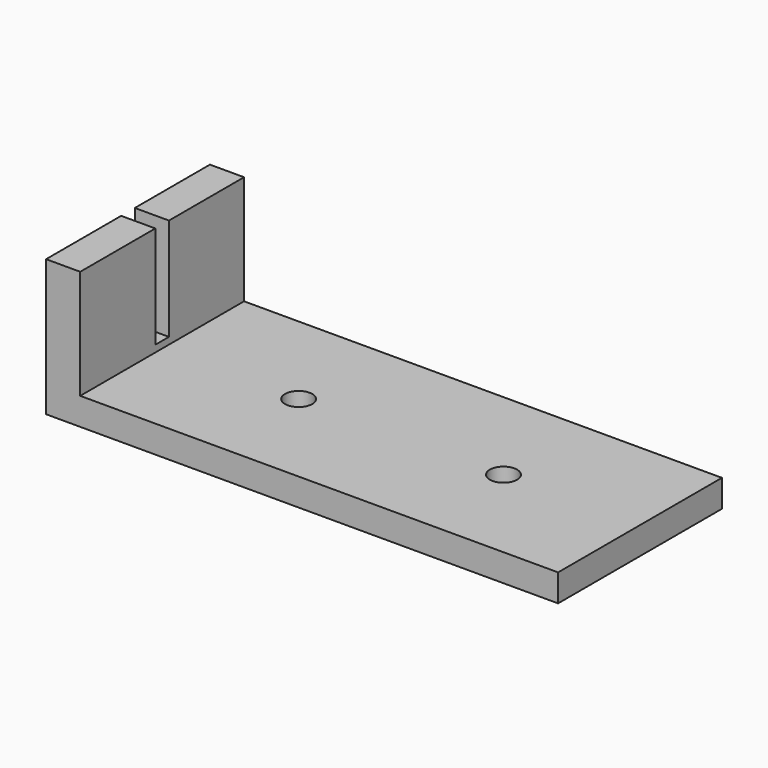
from build123d import *

# Parameters (mm, degrees)
F0_W     = 95.25
F0_H     = 38.1
F0_R     = 2.54
F1_DEPTH = 25.4
F2_W     = 88.9
F2_H     = 20.32
F3_DEPTH = 38.101
F4_W     = 3.175
F4_H     = 19.05
F5_DEPTH = 25.4


with BuildPart() as f1:
    # F0 (on Top) → F1 (new body)
    with BuildSketch(Plane.XY):
        with Locations((47.625, 19.05)):
            Rectangle(F0_W, F0_H)
        with Locations((31.75, 19.05)):
            Circle(F0_R, mode=Mode.SUBTRACT)
        with Locations((69.85, 19.05)):
            Circle(F0_R, mode=Mode.SUBTRACT)
    extrude(amount=F1_DEPTH)

    # F2 (on face) → F3 (cut, through all)
    with BuildSketch(Plane.XZ):
        with Locations((50.8, 15.24)):
            Rectangle(F2_W, F2_H)
    extrude(amount=-F3_DEPTH, mode=Mode.SUBTRACT)

    # F4 (on face) → F5 (cut)
    with BuildSketch(Plane(origin=(0, 0, 0), x_dir=(0, -1, 0), z_dir=(-1, 0, 0))):
        with Locations((-19.05, 15.875)):
            Rectangle(F4_W, F4_H)
    extrude(amount=-F5_DEPTH, mode=Mode.SUBTRACT)


solid = f1.part
